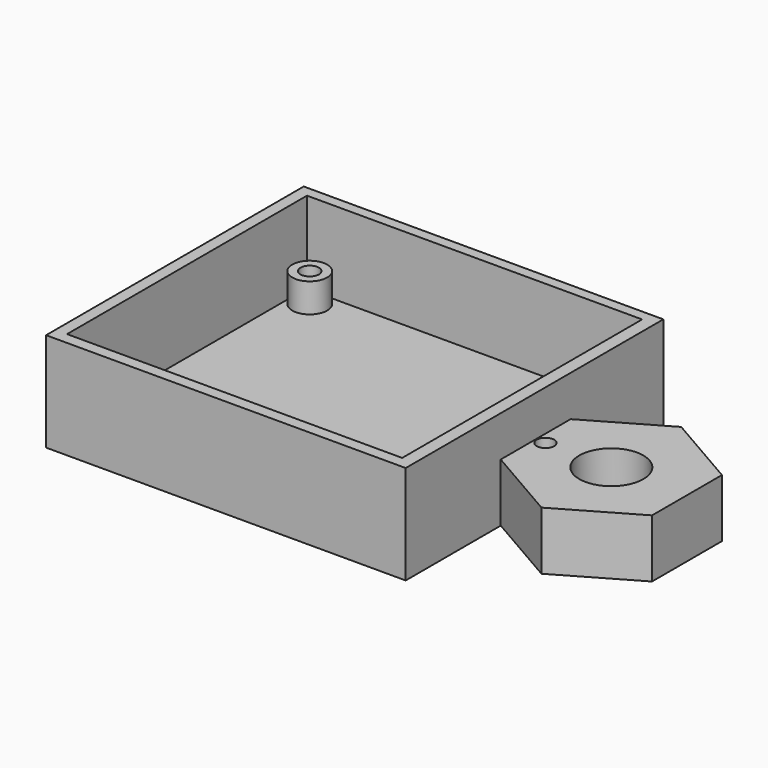
from build123d import *

# Parameters (mm, degrees)
SKETCH001_W   = 61.75
SKETCH001_H   = 55.3
SKETCH001_W_2 = 57.55
SKETCH001_H_2 = 51.5
PAD001_DEPTH  = 17
SKETCH_W      = 57.55
SKETCH_H      = 51.3
SKETCH_R      = 1.59
SKETCH_R_2    = 1.585
PAD_DEPTH     = 3
SKETCH003_R   = 3
SKETCH003_R_2 = 1.585
SKETCH003_R_3 = 1.59
PAD005_DEPTH  = 5
SKETCH002_R   = 5.5
PAD004_DEPTH  = 10
SKETCH004_R   = 1.5
POCKET_DEPTH  = 10


with BuildPart() as pad001:
    # Sketch001 → Pad001 (new body)
    with BuildSketch(Plane.XY):
        with Locations((28.875, 25.65)):
            Rectangle(SKETCH001_W, SKETCH001_H)
        with Locations((28.775, 25.75)):
            Rectangle(SKETCH001_W_2, SKETCH001_H_2, mode=Mode.SUBTRACT)
    extrude(amount=PAD001_DEPTH)


with BuildPart() as pad005:
    # Sketch → Pad (new body)
    with BuildSketch(Plane.XY):
        with Locations((28.775, 25.65)):
            Rectangle(SKETCH_W, SKETCH_H)
        with Locations((54.37, 3.18)):
            Circle(SKETCH_R, mode=Mode.SUBTRACT)
        with Locations((3.17, 48.13)):
            Circle(SKETCH_R_2, mode=Mode.SUBTRACT)
    extrude(amount=PAD_DEPTH)

    # Sketch003 → Pad005 (new body)
    with BuildSketch(Plane.XY.offset(3)):
        with Locations((3.17, 48.13)):
            Circle(SKETCH003_R)
        with Locations((3.17, 48.13)):
            Circle(SKETCH003_R_2, mode=Mode.SUBTRACT)
        with Locations((54.37, 3.18)):
            Circle(SKETCH003_R)
        with Locations((54.37, 3.18)):
            Circle(SKETCH003_R_3, mode=Mode.SUBTRACT)
    extrude(amount=PAD005_DEPTH)


with BuildPart() as pocket:
    # Sketch002 → Pad004 (new body)
    with BuildSketch(Plane.XY.offset(10)):
        Polygon((85.730762, 33.4), (72.740381, 40.9), (59.75, 33.4), (59.75, 18.4), (72.740381, 10.9), (85.730762, 18.4), align=None)
        with Locations((72.740381, 25.9)):
            Circle(SKETCH002_R, mode=Mode.SUBTRACT)
    extrude(amount=-PAD004_DEPTH)

    # Sketch004 → Pocket (cut)
    with BuildSketch(Plane.XY.offset(10)):
        with Locations((61.42812, 25.9)):
            Circle(SKETCH004_R)
    extrude(amount=-POCKET_DEPTH, mode=Mode.SUBTRACT)


solid = Compound([pad001.part, pad005.part, pocket.part])
